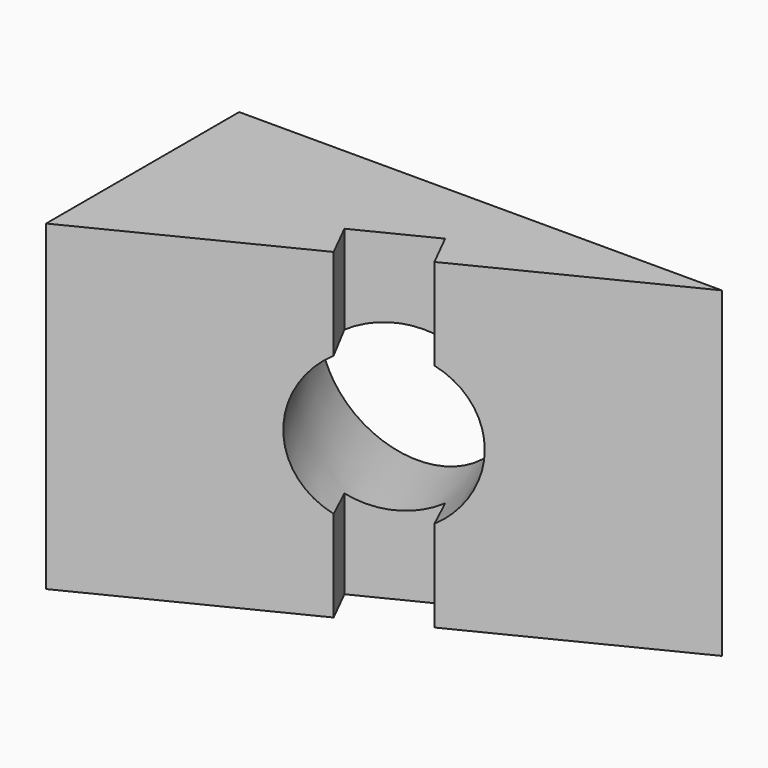
from build123d import *

# Parameters (mm, degrees)
F1_DEPTH = 101.6
F2_W     = 25.4
F2_H     = 101.6
F3_DEPTH = 12.7
F5_DEPTH = 141.478
F5_TAPER = -3


with BuildPart() as f1:
    # F0 (on Top) → F1 (new body)
    with BuildSketch(Plane.XY):
        Polygon((0, 76.2), (0, 0), (152.4, 76.2), align=None)
    extrude(amount=F1_DEPTH)

    # F2 (on face) → F3 (cut)
    with BuildSketch(Plane(origin=(0, 0, 0), x_dir=(0.894427191, 0.4472135955, 0), z_dir=(0.4472135955, -0.894427191, 0))):
        with Locations((85.1941899427, 50.8)):
            Rectangle(F2_W, F2_H)
    extrude(amount=-F3_DEPTH, mode=Mode.SUBTRACT)

    # F4 (on face) → F5 (cut)
    with BuildSketch(Plane(origin=(0, 0, 0), x_dir=(0.894427191, 0.4472135955, 0), z_dir=(0.4472135955, -0.894427191, 0))):
        with BuildLine():
            ThreePointArc((72.4941899427, 28.8029547439), (97.8941899427, 28.8029547439), (110.5941899427, 50.8))
            ThreePointArc((110.5941899427, 50.8), (97.8941899427, 72.7970452561), (72.4941899427, 72.7970452561))
            Line((72.4941899427, 72.7970452561), (72.4941899427, 28.8029547439))
        make_face()
        with BuildLine():
            Line((72.4941899427, 28.8029547439), (72.4941899427, 72.7970452561))
            ThreePointArc((72.4941899427, 72.7970452561), (59.7941899427, 50.8), (72.4941899427, 28.8029547439))
        make_face()
    extrude(amount=-F5_DEPTH, taper=F5_TAPER, mode=Mode.SUBTRACT)


solid = f1.part
